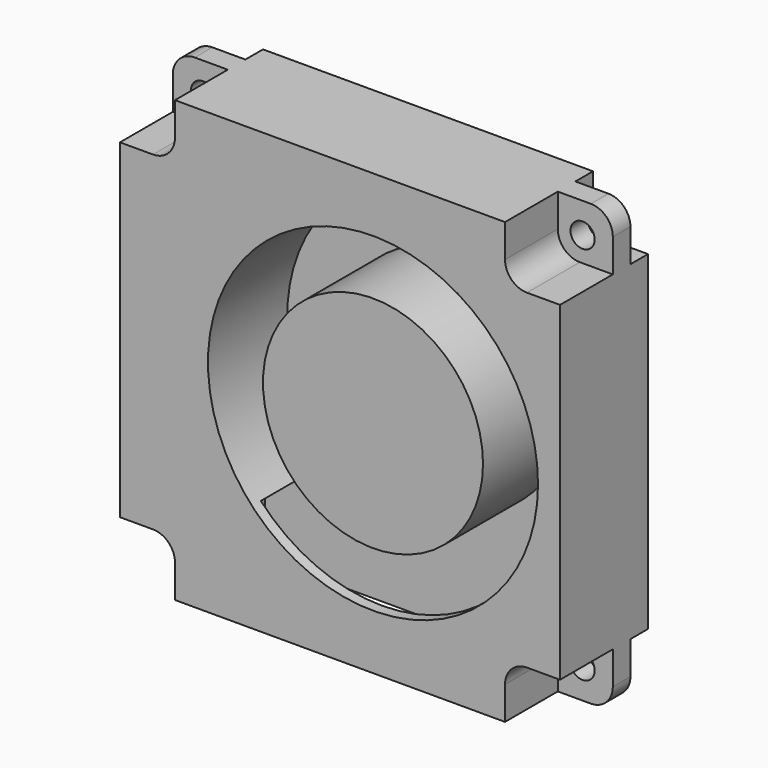
from build123d import *

# Parameters (mm, degrees)
F0_R     = 1.1
F1_DEPTH = 10
F2_R     = 1.1
F3_DEPTH = 6
F4_R     = 1.1
F5_DEPTH = 2
F6_R     = 15
F6_R_2   = 10
F7_DEPTH = 9
F8_W     = 28
F8_H     = 8
F9_DEPTH = 9.8


with BuildPart() as f1:
    # F0 (on Front) → F1 (new body)
    with BuildSketch(Plane.XZ):
        with BuildLine():
            Line((-18, -20), (18, -20))
            ThreePointArc((18, -20), (19.414214, -19.414214), (20, -18))
            Line((20, -18), (20, 18))
            ThreePointArc((20, 18), (19.414214, 19.414214), (18, 20))
            Line((18, 20), (-18, 20))
            ThreePointArc((-18, 20), (-19.414214, 19.414214), (-20, 18))
            Line((-20, 18), (-20, -18))
            ThreePointArc((-20, -18), (-19.414214, -19.414214), (-18, -20))
        make_face()
        with Locations((-17.25, -17.25)):
            Circle(F0_R, mode=Mode.SUBTRACT)
        with Locations((17.25, -17.25)):
            Circle(F0_R, mode=Mode.SUBTRACT)
        with Locations((-17.25, 17.25)):
            Circle(F0_R, mode=Mode.SUBTRACT)
        with Locations((17.25, 17.25)):
            Circle(F0_R, mode=Mode.SUBTRACT)
    extrude(amount=F1_DEPTH)

    # F2 (on face) → F3 (cut)
    with BuildSketch(Plane.XZ.offset(10)):
        with BuildLine():
            Line((-18, -20), (-15, -20))
            Line((-15, -20), (-15, -17))
            ThreePointArc((-15, -17), (-15.585786, -15.585786), (-17, -15))
            Line((-17, -15), (-20, -15))
            Line((-20, -15), (-20, -18))
            ThreePointArc((-20, -18), (-19.414214, -19.414214), (-18, -20))
        make_face()
        with Locations((-17.25, -17.25)):
            Circle(F2_R, mode=Mode.SUBTRACT)
        with BuildLine():
            Line((-20, 18), (-20, 15))
            Line((-20, 15), (-17, 15))
            ThreePointArc((-17, 15), (-15.585786, 15.585786), (-15, 17))
            Line((-15, 17), (-15, 20))
            Line((-15, 20), (-18, 20))
            ThreePointArc((-18, 20), (-19.414214, 19.414214), (-20, 18))
        make_face()
        with Locations((-17.25, 17.25)):
            Circle(F2_R, mode=Mode.SUBTRACT)
        with BuildLine():
            Line((17, 15), (20, 15))
            Line((20, 15), (20, 18))
            ThreePointArc((20, 18), (19.414214, 19.414214), (18, 20))
            Line((18, 20), (15, 20))
            Line((15, 20), (15, 17))
            ThreePointArc((15, 17), (15.585786, 15.585786), (17, 15))
        make_face()
        with Locations((17.25, 17.25)):
            Circle(F2_R, mode=Mode.SUBTRACT)
        with BuildLine():
            Line((15, -17), (15, -20))
            Line((15, -20), (18, -20))
            ThreePointArc((18, -20), (19.414214, -19.414214), (20, -18))
            Line((20, -18), (20, -15))
            Line((20, -15), (17, -15))
            ThreePointArc((17, -15), (15.585786, -15.585786), (15, -17))
        make_face()
        with Locations((17.25, -17.25)):
            Circle(F2_R, mode=Mode.SUBTRACT)
    extrude(amount=-F3_DEPTH, mode=Mode.SUBTRACT)

    # F4 (on face) → F5 (cut)
    with BuildSketch(Plane(origin=(0, 0, 0), x_dir=(-1, 0, 0), z_dir=(0, 1, 0))):
        with BuildLine():
            Line((-18, -20), (-15, -20))
            Line((-15, -20), (-15, -17))
            ThreePointArc((-15, -17), (-15.585786, -15.585786), (-17, -15))
            Line((-17, -15), (-20, -15))
            Line((-20, -15), (-20, -18))
            ThreePointArc((-20, -18), (-19.414214, -19.414214), (-18, -20))
        make_face()
        with Locations((-17.25, -17.25)):
            Circle(F4_R, mode=Mode.SUBTRACT)
        with BuildLine():
            Line((-15, 17), (-15, 20))
            Line((-15, 20), (-18, 20))
            ThreePointArc((-18, 20), (-19.414214, 19.414214), (-20, 18))
            Line((-20, 18), (-20, 15))
            Line((-20, 15), (-17, 15))
            ThreePointArc((-17, 15), (-15.585786, 15.585786), (-15, 17))
        make_face()
        with Locations((-17.25, 17.25)):
            Circle(F4_R, mode=Mode.SUBTRACT)
        with BuildLine():
            Line((17, 15), (20, 15))
            Line((20, 15), (20, 18))
            ThreePointArc((20, 18), (19.414214, 19.414214), (18, 20))
            Line((18, 20), (15, 20))
            Line((15, 20), (15, 17))
            ThreePointArc((15, 17), (15.585786, 15.585786), (17, 15))
        make_face()
        with Locations((17.25, 17.25)):
            Circle(F4_R, mode=Mode.SUBTRACT)
        with BuildLine():
            Line((20, -15), (17, -15))
            ThreePointArc((17, -15), (15.585786, -15.585786), (15, -17))
            Line((15, -17), (15, -20))
            Line((15, -20), (18, -20))
            ThreePointArc((18, -20), (19.414214, -19.414214), (20, -18))
            Line((20, -18), (20, -15))
        make_face()
        with Locations((17.25, -17.25)):
            Circle(F4_R, mode=Mode.SUBTRACT)
    extrude(amount=-F5_DEPTH, mode=Mode.SUBTRACT)

    # F6 (on face) → F7 (cut)
    with BuildSketch(Plane.XZ.offset(10)):
        with Locations((3, 0)):
            Circle(F6_R)
        with Locations((3, 0)):
            Circle(F6_R_2, mode=Mode.SUBTRACT)
    extrude(amount=-F7_DEPTH, mode=Mode.SUBTRACT)

    # F8 (on face) → F9 (cut)
    with BuildSketch(Plane(origin=(0, 0, -20), x_dir=(1, 0, 0), z_dir=(0, 0, -1))):
        with Locations((0, 5)):
            Rectangle(F8_W, F8_H)
    extrude(amount=-F9_DEPTH, mode=Mode.SUBTRACT)


solid = f1.part
